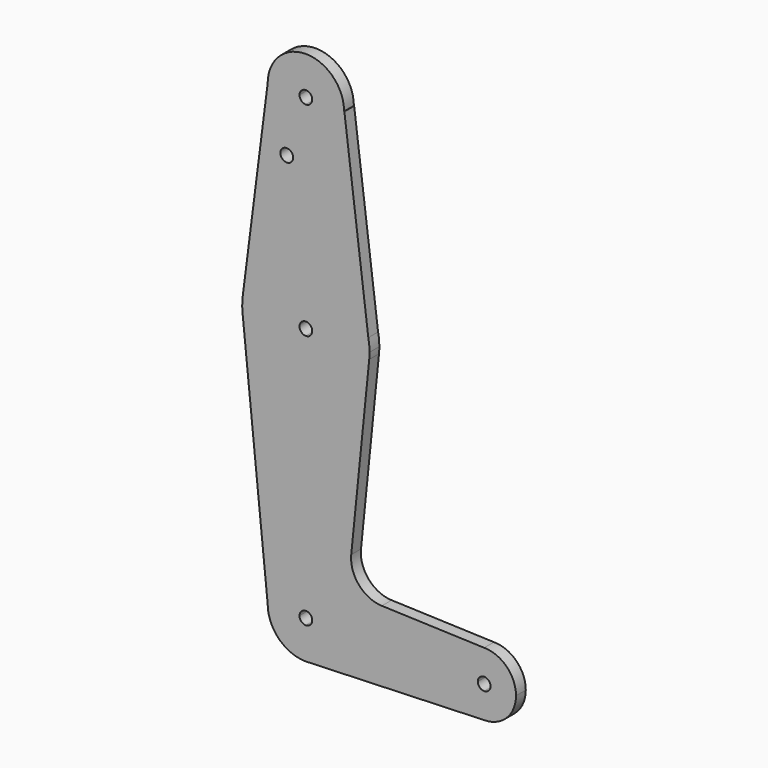
from build123d import *

# Parameters (mm, degrees)
F0_R     = 1.5875
F1_DEPTH = 3.048


with BuildPart() as f1:
    # F0 (on Front) → F1 (new body)
    with BuildSketch(Plane.XZ):
        with BuildLine():
            Line((0, 112.7125), (0, 104.775))
            ThreePointArc((0, 104.775), (6.7351920908, 107.5648079092), (9.525, 114.3))
            Line((9.525, 114.3), (1.5875, 114.3))
            ThreePointArc((1.5875, 114.3), (1.1225320151, 113.1774679849), (0, 112.7125))
        make_face()
        with BuildLine():
            Line((-1.5875, 114.3), (-9.525, 114.3))
            ThreePointArc((-9.525, 114.3), (-6.7351920908, 107.5648079092), (0, 104.775))
            Line((0, 104.775), (0, 112.7125))
            ThreePointArc((0, 112.7125), (-1.1225320151, 113.1774679849), (-1.5875, 114.3))
        make_face()
        with BuildLine():
            ThreePointArc((9.525, 114.3), (0, 123.825), (-9.525, 114.3))
            Line((-9.525, 114.3), (-1.5875, 114.3))
            ThreePointArc((-1.5875, 114.3), (0, 115.8875), (1.5875, 114.3))
            Line((1.5875, 114.3), (9.525, 114.3))
        make_face()
        with BuildLine():
            Line((0, 104.775), (0, 79.375))
            ThreePointArc((0, 79.375), (10.0640474958, 75.7772380038), (15.5664511985, 66.6146784884))
            Line((15.5664511985, 66.6146784884), (9.5992867411, 114.3))
            Line((9.5992867411, 114.3), (9.525, 114.3))
            ThreePointArc((9.525, 114.3), (6.7351920908, 107.5648079092), (0, 104.775))
        make_face()
        with BuildLine():
            Line((-9.525, 114.3), (-15.7474569047, 65.5082893304))
            ThreePointArc((-15.7474569047, 65.5082893304), (-10.4912828548, 75.4142187767), (0, 79.375))
            Line((0, 79.375), (0, 104.775))
            ThreePointArc((0, 104.775), (-6.7351920908, 107.5648079092), (-9.525, 114.3))
        make_face()
        with Locations((-4.7625, 100.0252)):
            Circle(F0_R, mode=Mode.SUBTRACT)
        with BuildLine():
            ThreePointArc((-15.7942028036, 61.9003804205), (-10.644756084, 51.722700101), (0, 47.625))
            Line((0, 47.625), (0, 61.9125))
            ThreePointArc((0, 61.9125), (-1.5875, 63.5), (0, 65.0875))
            Line((0, 65.0875), (0, 79.375))
            ThreePointArc((0, 79.375), (-10.4912828548, 75.4142187767), (-15.7474569047, 65.5082893304))
            ThreePointArc((-15.7474569047, 65.5082893304), (-15.873667691, 63.7056672947), (-15.7942028036, 61.9003804205))
        make_face()
        with BuildLine():
            Line((0, 61.9125), (0, 47.625))
            ThreePointArc((0, 47.625), (10.644756084, 51.722700101), (15.7942028036, 61.9003804205))
            ThreePointArc((15.7942028036, 61.9003804205), (15.8547878338, 62.6991705884), (15.875, 63.5))
            ThreePointArc((15.875, 63.5), (15.7976744772, 65.0649620162), (15.5664511985, 66.6146784884))
            ThreePointArc((15.5664511985, 66.6146784884), (10.0640474958, 75.7772380038), (0, 79.375))
            Line((0, 79.375), (0, 65.0875))
            ThreePointArc((0, 65.0875), (1.1225320151, 64.6225320151), (1.5875, 63.5))
            ThreePointArc((1.5875, 63.5), (1.1225320151, 62.3774679849), (0, 61.9125))
        make_face()
        with BuildLine():
            Line((0, 47.625), (0, 9.525))
            ThreePointArc((0, 9.525), (6.7351920908, 6.7351920908), (9.525, 0))
            Line((9.525, 0), (36.5125, 0))
            ThreePointArc((36.5125, 0), (38.8373399243, 5.6126600757), (44.45, 7.9375))
            Line((44.45, 7.9375), (18.9329889534, 8.8488218231))
            ThreePointArc((18.9329889534, 8.8488218231), (13.22446249, 11.5691841219), (11.3070069952, 17.5950458731))
            Line((11.3070069952, 17.5950458731), (15.7942028036, 61.9003804205))
            ThreePointArc((15.7942028036, 61.9003804205), (10.644756084, 51.722700101), (0, 47.625))
        make_face()
        with BuildLine():
            ThreePointArc((-9.525, 0), (-6.7351920908, 6.7351920908), (0, 9.525))
            Line((0, 9.525), (0, 47.625))
            ThreePointArc((0, 47.625), (-10.644756084, 51.722700101), (-15.7942028036, 61.9003804205))
            Line((-15.7942028036, 61.9003804205), (-9.525, 0))
        make_face()
        with BuildLine():
            Line((0, 9.525), (0, 1.5875))
            ThreePointArc((0, 1.5875), (1.1225320151, 1.1225320151), (1.5875, 0))
            Line((1.5875, 0), (9.525, 0))
            ThreePointArc((9.525, 0), (6.7351920908, 6.7351920908), (0, 9.525))
        make_face()
        with BuildLine():
            ThreePointArc((-1.5875, 0), (-1.1225320151, 1.1225320151), (0, 1.5875))
            Line((0, 1.5875), (0, 9.525))
            ThreePointArc((0, 9.525), (-6.7351920908, 6.7351920908), (-9.525, 0))
            Line((-9.525, 0), (-1.5875, 0))
        make_face()
        with BuildLine():
            ThreePointArc((0, -1.5875), (-1.1225320151, -1.1225320151), (-1.5875, 0))
            Line((-1.5875, 0), (-9.525, 0))
            ThreePointArc((-9.525, 0), (-6.7351920908, -6.7351920908), (0, -9.525))
            Line((0, -9.525), (0, -1.5875))
        make_face()
        with BuildLine():
            Line((9.525, 0), (1.5875, 0))
            ThreePointArc((1.5875, 0), (1.1225320151, -1.1225320151), (0, -1.5875))
            Line((0, -1.5875), (0, -9.525))
            Line((0, -9.525), (0.6773435479, -9.500885786))
            ThreePointArc((0.6773435479, -9.500885786), (6.9705567315, -6.4912990883), (9.525, 0))
        make_face()
        with BuildLine():
            Line((36.5125, 0), (9.525, 0))
            ThreePointArc((9.525, 0), (6.9705567315, -6.4912990883), (0.6773435479, -9.500885786))
            Line((0.6773435479, -9.500885786), (44.45, -7.9425285691))
            Line((44.45, -7.9425285691), (44.45, -7.9375))
            ThreePointArc((44.45, -7.9375), (38.8373399243, -5.6126600757), (36.5125, 0))
        make_face()
        with BuildLine():
            Line((42.8625, 0), (36.5125, 0))
            ThreePointArc((36.5125, 0), (38.8373399243, -5.6126600757), (44.45, -7.9375))
            Line((44.45, -7.9375), (44.45, -1.5875))
            ThreePointArc((44.45, -1.5875), (43.3274679849, -1.1225320151), (42.8625, 0))
        make_face()
        with BuildLine():
            ThreePointArc((44.45, 7.9375), (38.8373399243, 5.6126600757), (36.5125, 0))
            Line((36.5125, 0), (42.8625, 0))
            ThreePointArc((42.8625, 0), (44.45, 1.5875), (46.0375, 0))
            ThreePointArc((46.0375, 0), (45.5725320151, -1.1225320151), (44.45, -1.5875))
            Line((44.45, -1.5875), (44.45, -7.9375))
            ThreePointArc((44.45, -7.9375), (50.0626600757, -5.6126600757), (52.3875, 0))
            ThreePointArc((52.3875, 0), (50.0626600757, 5.6126600757), (44.45, 7.9375))
        make_face()
    extrude(amount=F1_DEPTH)


solid = f1.part
